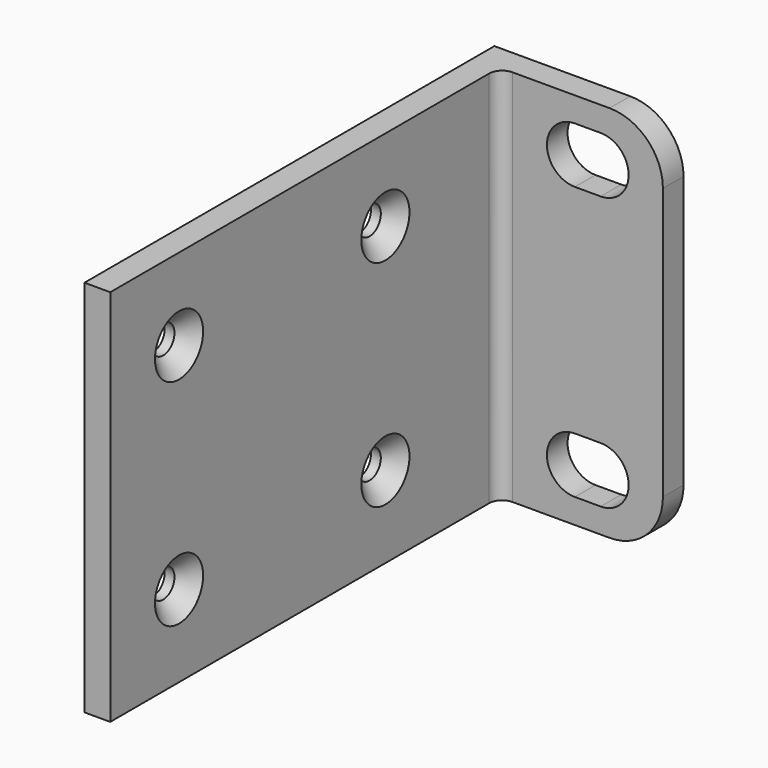
from build123d import *

# Parameters (mm, degrees)
SKETCH011_W     = 59.6
SKETCH011_H     = 44
SKETCH011_R     = 1.65
PAD006_DEPTH    = 3
CHAMFER003_SIZE = 1.85
SKETCH012_W     = 3
SKETCH012_H     = 44
PAD007_DEPTH    = 19
POCKET005_DEPTH = 59.601
FILLET_R        = 1.5
FILLET001_R     = 6.2


with BuildPart() as part:
    # Sketch011 → Pad006 (new body)
    with BuildSketch(Plane.YZ):
        with Locations((-29.8, 22)):
            Rectangle(SKETCH011_W, SKETCH011_H)
        with Locations((-49.6, 34.5)):
            Circle(SKETCH011_R, mode=Mode.SUBTRACT)
        with Locations((-19.6, 34.5)):
            Circle(SKETCH011_R, mode=Mode.SUBTRACT)
        with Locations((-49.6, 9.5)):
            Circle(SKETCH011_R, mode=Mode.SUBTRACT)
        with Locations((-19.6, 9.5)):
            Circle(SKETCH011_R, mode=Mode.SUBTRACT)
    extrude(amount=PAD006_DEPTH)

    # Chamfer003
    chamfer003_edges = [part.edges().sort_by_distance(p)[0] for p in [
        (3, -51.25, 34.5),
        (3, -21.25, 34.5),
        (3, -51.25, 9.5),
        (3, -21.25, 9.5),
    ]]
    chamfer(chamfer003_edges, length=CHAMFER003_SIZE)

    # Sketch012 (on Face4 of Chamfer003) → Pad007 (join)
    with BuildSketch(Plane.YZ.offset(3)):
        with Locations((-1.5, 22)):
            Rectangle(SKETCH012_W, SKETCH012_H)
    extrude(amount=PAD007_DEPTH)

    # Sketch013 (on Face16 of Pad007) → Pocket005 (cut, through all)
    with BuildSketch(Plane.ZX):
        with BuildLine():
            ThreePointArc((9.375, 14.7625), (6.125, 18.0125), (2.875, 14.7625))
            Line((2.875, 14.7625), (2.875, 11.7625))
            ThreePointArc((2.875, 11.7625), (6.125, 8.5125), (9.375, 11.7625))
            Line((9.375, 14.7625), (9.375, 11.7625))
        make_face()
        with BuildLine():
            ThreePointArc((41.125, 14.7625), (37.875, 18.0125), (34.625, 14.7625))
            Line((34.625, 14.7625), (34.625, 11.7625))
            ThreePointArc((34.625, 11.7625), (37.875, 8.5125), (41.125, 11.7625))
            Line((41.125, 14.7625), (41.125, 11.7625))
        make_face()
    extrude(amount=-POCKET005_DEPTH, mode=Mode.SUBTRACT)

    # Fillet
    fillet_edges = [part.edges().sort_by_distance(p)[0] for p in [
        (3, -3, 22),
    ]]
    fillet(fillet_edges, radius=FILLET_R)

    # Fillet001
    fillet001_edges = [part.edges().sort_by_distance(p)[0] for p in [
        (22, -1.5, 44),
        (22, -1.5, 0),
    ]]
    fillet(fillet001_edges, radius=FILLET001_R)


solid = part.part
